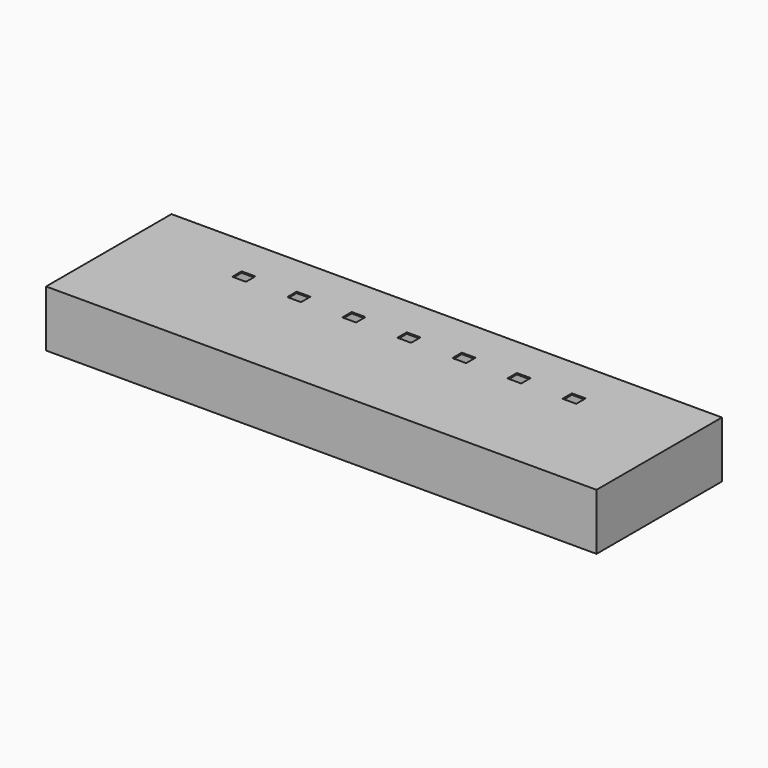
from build123d import *

# Parameters (mm, degrees)
F0_W      = 200
F0_H      = 56.94
F0_W_2    = 5
F0_H_2    = 4.2824763805
F1_DEPTH  = 0.5
F2_DEPTH  = 0.501
F3_W      = 1
F3_H      = 24.6360383326
F4_DEPTH  = 6
F6_DEPTH  = 150.001
F8_W      = 1
F8_H      = 56.94
F9_DEPTH  = 20
F7_W      = 1
F7_H      = 56.94
F10_DEPTH = 20
F11_W     = 198
F11_H     = 1
F12_DEPTH = 20
F13_W     = 198
F13_H     = 1
F14_DEPTH = 20


with BuildPart() as f1:
    # F0 (on Top) → F1 (new body, symmetric)
    with BuildSketch(Plane.XY):
        Rectangle(F0_W, F0_H)
        with Locations((-60, 11.3287618098)):
            Rectangle(F0_W_2, F0_H_2, mode=Mode.SUBTRACT)
        with Locations((-40, 11.3287618098)):
            Rectangle(F0_W_2, F0_H_2, mode=Mode.SUBTRACT)
        with Locations((-20, 11.3287618098)):
            Rectangle(F0_W_2, F0_H_2, mode=Mode.SUBTRACT)
        with Locations((0, 11.3287618098)):
            Rectangle(F0_W_2, F0_H_2, mode=Mode.SUBTRACT)
        with Locations((20, 11.3287618098)):
            Rectangle(F0_W_2, F0_H_2, mode=Mode.SUBTRACT)
        with Locations((40, 11.3287618098)):
            Rectangle(F0_W_2, F0_H_2, mode=Mode.SUBTRACT)
        with Locations((60, 11.3287618098)):
            Rectangle(F0_W_2, F0_H_2, mode=Mode.SUBTRACT)
    extrude(amount=F1_DEPTH, both=True)

    # F0 (on Top) → F2 (cut, through all)
    with BuildSketch(Plane.XY):
        Rectangle(F0_W, F0_H)
        with Locations((-60, 11.3287618098)):
            Rectangle(F0_W_2, F0_H_2, mode=Mode.SUBTRACT)
        with Locations((-40, 11.3287618098)):
            Rectangle(F0_W_2, F0_H_2, mode=Mode.SUBTRACT)
        with Locations((-20, 11.3287618098)):
            Rectangle(F0_W_2, F0_H_2, mode=Mode.SUBTRACT)
        with Locations((0, 11.3287618098)):
            Rectangle(F0_W_2, F0_H_2, mode=Mode.SUBTRACT)
        with Locations((20, 11.3287618098)):
            Rectangle(F0_W_2, F0_H_2, mode=Mode.SUBTRACT)
        with Locations((40, 11.3287618098)):
            Rectangle(F0_W_2, F0_H_2, mode=Mode.SUBTRACT)
        with Locations((60, 11.3287618098)):
            Rectangle(F0_W_2, F0_H_2, mode=Mode.SUBTRACT)
    extrude(amount=-F2_DEPTH, mode=Mode.SUBTRACT)

    # F3 (on face) → F4 (join)
    with BuildSketch(Plane(origin=(0, 0, 0), x_dir=(1, 0, 0), z_dir=(0, 0, -1))):
        with Locations((-49.5, 10.1304955468)):
            Rectangle(F3_W, F3_H)
        with Locations((65.5, 10.1304955468)):
            Rectangle(F3_W, F3_H)
    extrude(amount=F4_DEPTH)

    # F5 (on face) → F6 (cut, through all)
    with BuildSketch(Plane(origin=(-50, 0, 0), x_dir=(0, -1, 0), z_dir=(-1, 0, 0))):
        with BuildLine():
            Line((-2.1875236195, -6), (22.448514713, -6))
            add(Edge.make_bspline(
                [(22.448514713, -6), (18.0848203599, -3.1530638225), (10.0274980374, -1.3176856102), (2.3821657524, -3.011564957), (-2.1875236195, -6)],
                knots=[0, 0, 0, 0, 0.5, 1, 1, 1, 1], degree=3))
        make_face()
    extrude(amount=-F6_DEPTH, mode=Mode.SUBTRACT)

    # F8 (on face) → F9 (join)
    with BuildSketch(Plane(origin=(0, 0, 0), x_dir=(1, 0, 0), z_dir=(0, 0, -1))):
        with Locations((99.5, 0)):
            Rectangle(F8_W, F8_H)
    extrude(amount=F9_DEPTH)

    # F7 (on face) → F10 (join)
    with BuildSketch(Plane(origin=(0, 0, 0), x_dir=(1, 0, 0), z_dir=(0, 0, -1))):
        with Locations((-99.5, 0)):
            Rectangle(F7_W, F7_H)
    extrude(amount=F10_DEPTH)

    # F11 (on face) → F12 (join)
    with BuildSketch(Plane(origin=(0, 0, 0), x_dir=(1, 0, 0), z_dir=(0, 0, -1))):
        with Locations((0, 27.97)):
            Rectangle(F11_W, F11_H)
    extrude(amount=F12_DEPTH)

    # F13 (on face) → F14 (join)
    with BuildSketch(Plane(origin=(0, 0, 0), x_dir=(1, 0, 0), z_dir=(0, 0, -1))):
        with Locations((0, -27.97)):
            Rectangle(F13_W, F13_H)
    extrude(amount=F14_DEPTH)


solid = f1.part
